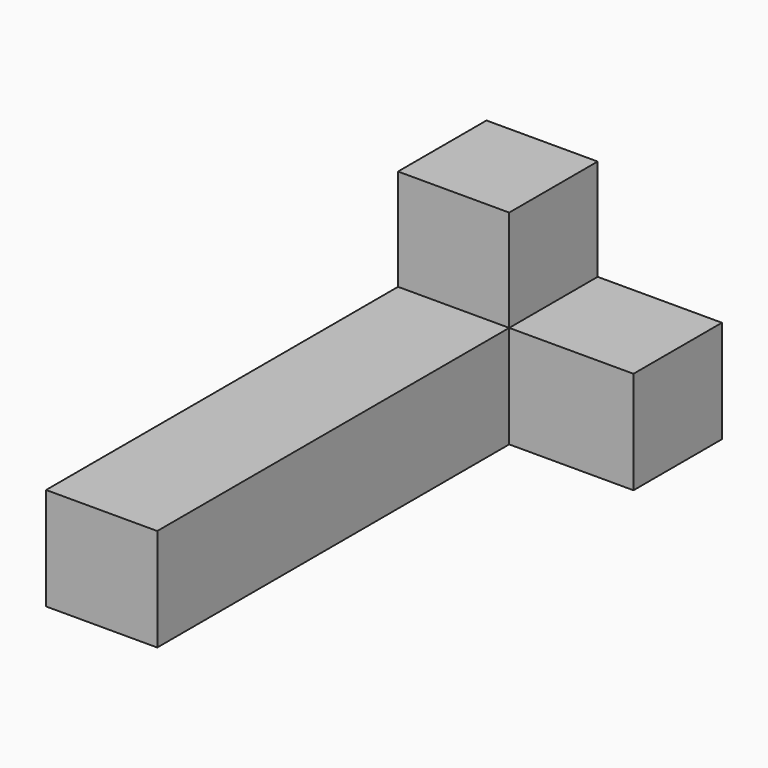
from build123d import *

# Parameters (mm, degrees)
F0_W     = 52.7621656656
F0_H     = 52.4755194783
F1_DEPTH = 48.6833434552
F2_DEPTH = 48.1709782034
F3_W     = 52.7621656656
F3_H     = 48.6833434552
F4_DEPTH = 208.7936643511
F5_DEPTH = 58.975668624


with BuildPart() as f1:
    # F0 (on Top) → F1 (new body)
    with BuildSketch(Plane.XY):
        with Locations((26.3810828328, 26.2377597392)):
            Rectangle(F0_W, F0_H)
    extrude(amount=F1_DEPTH)


with BuildPart() as f2:
    # F2 (new): a face of the model
    f2_faces = [f1.part.faces().sort_by_distance(p)[0] for p in [
        (26.3810828328, 26.2377597392, 48.6833434552),
    ]]
    extrude(f2_faces, amount=F2_DEPTH)


with BuildPart() as f4:
    # F3 (on face) → F4 (new body)
    with BuildSketch(Plane.XZ):
        with Locations((26.3810828328, 24.3416717276)):
            Rectangle(F3_W, F3_H)
    extrude(amount=F4_DEPTH)


with BuildPart() as f5:
    # F5 (new): a face of the model
    f5_faces = [f1.part.faces().sort_by_distance(p)[0] for p in [
        (52.7621656656, 26.2377597392, 24.3416717276),
    ]]
    extrude(f5_faces, amount=F5_DEPTH)


solid = Compound([f1.part, f2.part, f4.part, f5.part])
